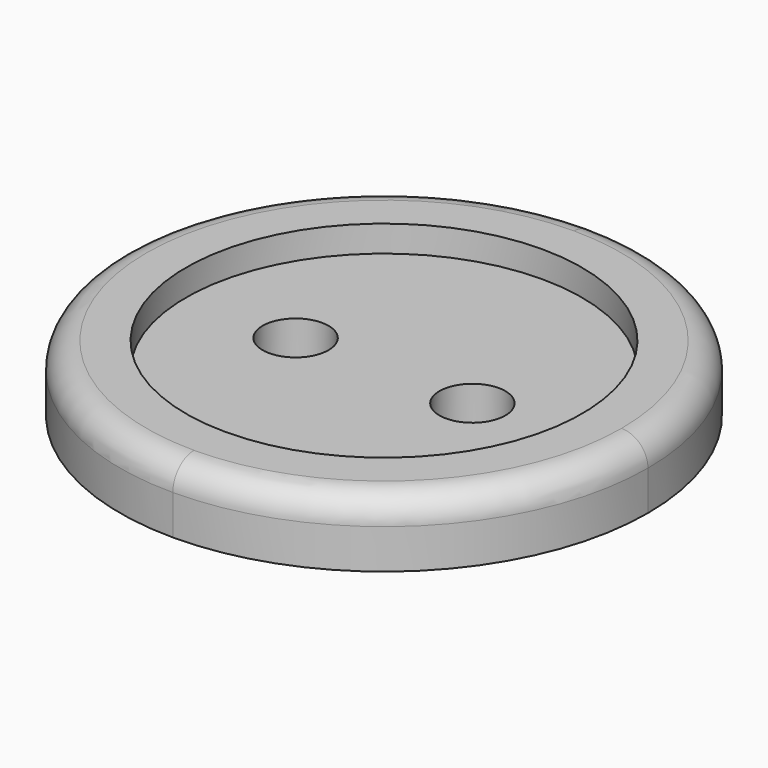
from build123d import *

# Parameters (mm, degrees)
F1_DEPTH = 2.5
F0_R     = 1.25
F2_DEPTH = 1.5
F3_R     = 1


with BuildPart() as f1:
    # F0 (on Top) → F1 (new body)
    with BuildSketch(Plane.XY):
        with BuildLine():
            ThreePointArc((0, 7.5), (5.3033008589, 5.3033008589), (7.5, 0))
            ThreePointArc((7.5, 0), (5.3033008589, -5.3033008589), (0, -7.5))
            Line((0, -7.5), (0, -10))
            ThreePointArc((0, -10), (7.0710678119, -7.0710678119), (10, 0))
            ThreePointArc((10, 0), (7.0710678119, 7.0710678119), (0, 10))
            Line((0, 10), (0, 7.5))
        make_face()
        with BuildLine():
            ThreePointArc((0, -7.5), (-7.5, 0), (0, 7.5))
            Line((0, 7.5), (0, 10))
            ThreePointArc((0, 10), (-10, 0), (0, -10))
            Line((0, -10), (0, -7.5))
        make_face()
    extrude(amount=F1_DEPTH)

    # F0 (on Top) → F2 (join)
    with BuildSketch(Plane.XY):
        with BuildLine():
            Line((0, -7.5), (0, 7.5))
            ThreePointArc((0, 7.5), (-7.5, 0), (0, -7.5))
        make_face()
        with Locations((-3.3498867415, 0)):
            Circle(F0_R, mode=Mode.SUBTRACT)
        with BuildLine():
            ThreePointArc((0, -7.5), (5.3033008589, -5.3033008589), (7.5, 0))
            ThreePointArc((7.5, 0), (5.3033008589, 5.3033008589), (0, 7.5))
            Line((0, 7.5), (0, -7.5))
        make_face()
        with Locations((3.3498867415, 0)):
            Circle(F0_R, mode=Mode.SUBTRACT)
    extrude(amount=F2_DEPTH)

    # F3
    f3_edges = [f1.edges().sort_by_distance(p)[0] for p in [
        (-10, 0, 2.5),
    ]]
    fillet(f3_edges, radius=F3_R)


solid = f1.part
